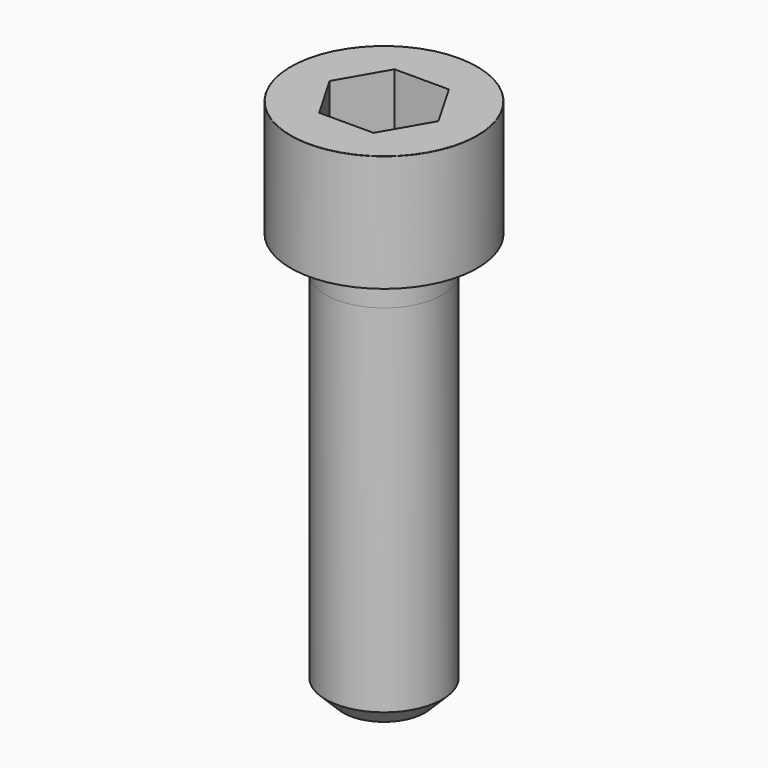
from build123d import *

# Parameters (mm, degrees)
POCKET_DEPTH = 8.07


with BuildPart() as part:
    # Sketch → Revolve (revolve)
    with BuildSketch(Plane.YZ):
        with BuildLine():
            Line((4.999, 0), (8, 0))
            Line((8, 0), (8, 9.97229))
            ThreePointArc((8, 9.97229), (7.991884, 9.991884), (7.97229, 10))
            Line((7.97229, 10), (0, 10))
            Line((0, -35), (0, 10))
            Line((3.5, -35), (0, -35))
            Line((5, -33.5), (3.5, -35))
            Line((5, -3), (5, -33.5))
            Line((4.999, 0), (5, -3))
        make_face()
    revolve(axis=Axis((0, 0, 0), (0, 0, 1)))

    # Sketch001 → Pocket (cut)
    with BuildSketch(Plane.XY.offset(10)):
        Polygon((4.659217, 0), (2.329608, 4.035), (-2.329608, 4.035), (-4.659217, 0), (-2.329608, -4.035), (2.329608, -4.035), align=None)
    extrude(amount=-POCKET_DEPTH, mode=Mode.SUBTRACT)


solid = part.part
